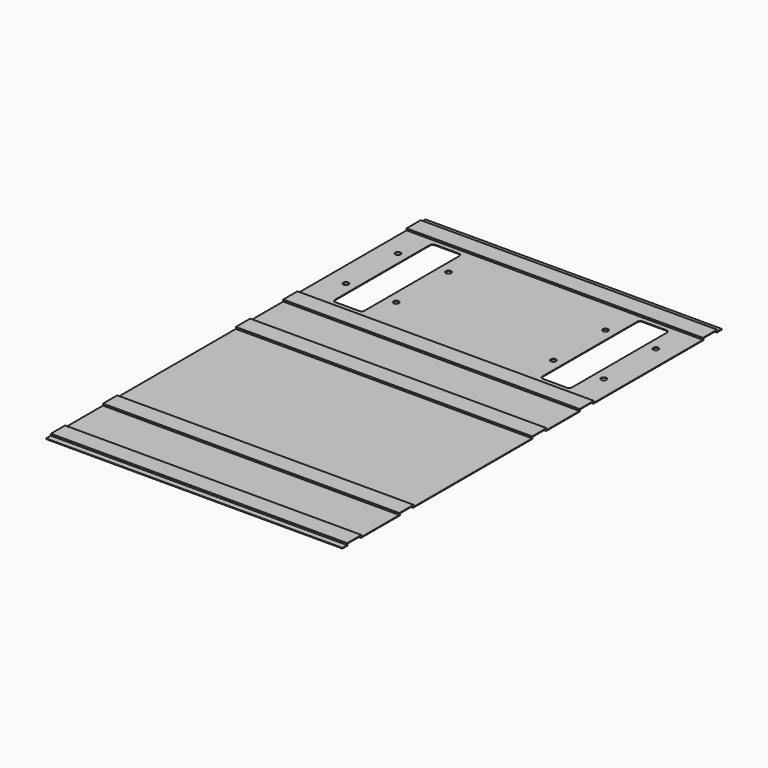
from build123d import *

# Parameters (mm, degrees)
F0_W     = 1
F0_H     = 1
F1_DEPTH = 500
F2_R     = 4.5
F3_DEPTH = 1.001


with BuildPart() as f1:
    # F0 (on Right) → F1 (new body)
    with BuildSketch(Plane.YZ):
        Polygon((-25.280111, 1), (-25.280111, 0), (-14.280111, 0), (-14.280111, 3), (13.719889, 3), (13.719889, 0), (95.719889, 0), (95.719889, 3), (94.719889, 3), (94.719889, 1), (14.719889, 1), (14.719889, 4), (-15.280111, 4), (-15.280111, 1), align=None)
        Polygon((95.719889, 4), (95.719889, 3), (123.719889, 3), (123.719889, 0), (375.719889, 0), (375.719889, 3), (404.01419, 3), (404.045188, 0), (475.719889, 0), (475.719889, 3), (503.719889, 3), (503.719889, 0), (735.719889, 0), (735.719889, 1), (735.719889, 3), (763.719889, 3), (763.719889, 1), (763.719889, 0), (774.719889, 0), (774.719889, 1), (764.719889, 1), (764.719889, 4), (734.719889, 4), (734.719889, 1), (504.719889, 1), (504.719889, 4), (474.719889, 4), (474.719889, 1), (405.034908, 1), (405.003911, 4), (374.719889, 4), (374.719889, 1), (124.719889, 1), (124.719889, 4), align=None)
        Polygon((-25.280111, 1), (-25.280111, 0), (-14.280111, 0), (-14.280111, 3), (13.719889, 3), (13.719889, 0), (95.719889, 0), (95.719889, 3), (94.719889, 3), (94.719889, 1), (14.719889, 1), (14.719889, 4), (-15.280111, 4), (-15.280111, 1), align=None)
        Polygon((-25.280111, 1), (-25.280111, 0), (-14.280111, 0), (-14.280111, 3), (13.719889, 3), (13.719889, 0), (95.719889, 0), (95.719889, 3), (94.719889, 3), (94.719889, 1), (14.719889, 1), (14.719889, 4), (-15.280111, 4), (-15.280111, 1), align=None)
        with Locations((95.219889, 3.5)):
            Rectangle(F0_W, F0_H)
        Polygon((-25.280111, 1), (-25.280111, 0), (-14.280111, 0), (-14.280111, 3), (13.719889, 3), (13.719889, 0), (95.719889, 0), (95.719889, 3), (94.719889, 3), (94.719889, 1), (14.719889, 1), (14.719889, 4), (-15.280111, 4), (-15.280111, 1), align=None)
    extrude(amount=-F1_DEPTH)

    # F2 (on face) → F3 (cut, through all)
    with BuildSketch(Plane.XY.offset(1)):
        with BuildLine():
            Line((-405, 726.276154), (-445, 726.276154))
            ThreePointArc((-445, 726.276154), (-448.535534, 724.811688), (-450, 721.276154))
            Line((-450, 721.276154), (-450, 521.276154))
            ThreePointArc((-450, 521.276154), (-448.535534, 517.74062), (-445, 516.276154))
            Line((-445, 516.276154), (-405, 516.276154))
            ThreePointArc((-405, 516.276154), (-401.464466, 517.74062), (-400, 521.276154))
            Line((-400, 521.276154), (-400, 721.276154))
            ThreePointArc((-400, 721.276154), (-401.464466, 724.811688), (-405, 726.276154))
        make_face()
        with Locations((-467.5, 676.276154)):
            Circle(F2_R)
        with Locations((-467.5, 566.276154)):
            Circle(F2_R)
        with Locations((-382.5, 676.276154)):
            Circle(F2_R)
        with Locations((-382.5, 566.276154)):
            Circle(F2_R)
        with BuildLine():
            ThreePointArc((-100, 521.276154), (-98.535534, 517.74062), (-95, 516.276154))
            Line((-95, 516.276154), (-55, 516.276154))
            ThreePointArc((-55, 516.276154), (-51.464466, 517.74062), (-50, 521.276154))
            Line((-50, 521.276154), (-50, 721.276154))
            ThreePointArc((-50, 721.276154), (-51.464466, 724.811688), (-55, 726.276154))
            Line((-55, 726.276154), (-95, 726.276154))
            ThreePointArc((-95, 726.276154), (-98.535534, 724.811688), (-100, 721.276154))
            Line((-100, 721.276154), (-100, 521.276154))
        make_face()
        with Locations((-32.5, 566.276154)):
            Circle(F2_R)
        with Locations((-117.5, 676.276154)):
            Circle(F2_R)
        with Locations((-117.5, 566.276154)):
            Circle(F2_R)
        with Locations((-32.5, 676.276154)):
            Circle(F2_R)
    extrude(amount=-F3_DEPTH, mode=Mode.SUBTRACT)


solid = f1.part
